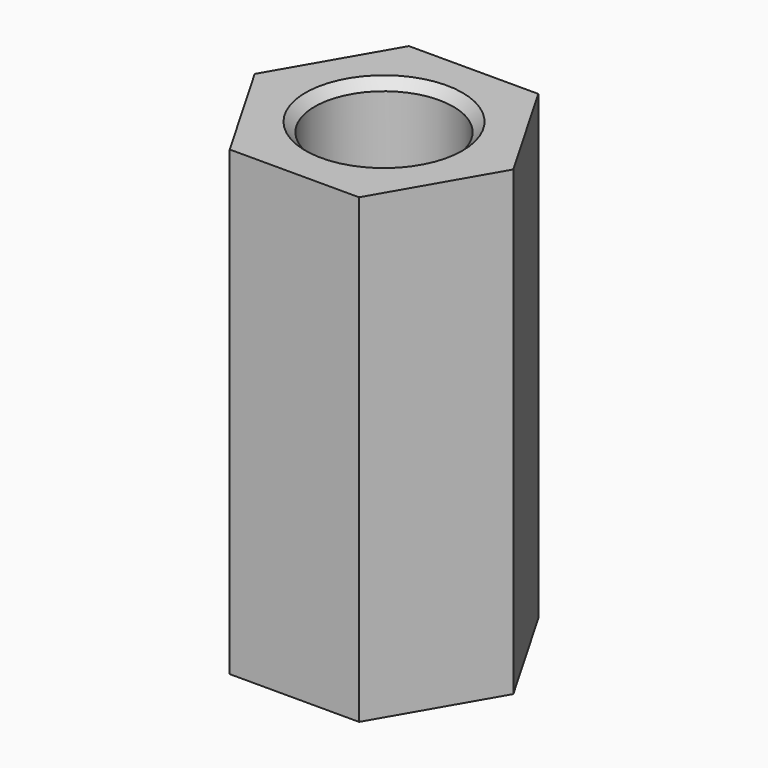
from build123d import *

# Parameters (mm, degrees)
PAD_DEPTH    = 10
SKETCH001_R  = 1.5
POCKET_DEPTH = 10.001
CHAMFER_SIZE = 0.2


with BuildPart() as part:
    # Sketch → Pad (new body)
    with BuildSketch(Plane.XY):
        Polygon((2.8, 0), (1.4, 2.424871), (-1.4, 2.424871), (-2.8, 0), (-1.4, -2.424871), (1.4, -2.424871), align=None)
    extrude(amount=PAD_DEPTH)

    # Sketch001 (on Face8 of Pad) → Pocket (cut, through all)
    with BuildSketch(Plane.XY.offset(10)):
        Circle(SKETCH001_R)
    extrude(amount=-POCKET_DEPTH, mode=Mode.SUBTRACT)

    # Chamfer
    chamfer_edges = [part.edges().sort_by_distance(p)[0] for p in [
        (-1.5, 0, 10),
        (-1.5, 0, 0),
    ]]
    chamfer(chamfer_edges, length=CHAMFER_SIZE)


solid = part.part
